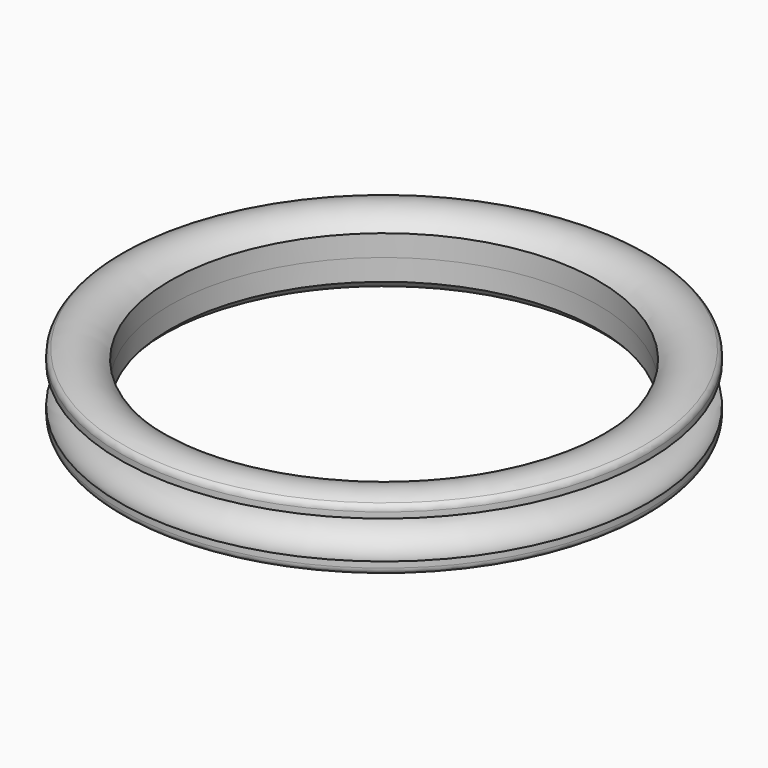
from build123d import *

# Parameters (mm, degrees)
F3_R = 1


with BuildPart() as f1:
    # F0 (on Front) → F1 (revolve)
    with BuildSketch(Plane.XZ):
        with BuildLine():
            Line((30, 3), (30, 0))
            ThreePointArc((30, 0), (32.585786, 3.741657), (37, 2.645751))
            Line((37, 2.645751), (37, 4))
            ThreePointArc((37, 4), (33.292893, 4.949747), (30, 3))
        make_face()
    revolve(axis=Axis((0, 0, 6.898838), (0, 0, 1)))

    # F3
    f3_edges = [f1.edges().sort_by_distance(p)[0] for p in [
        (-37, 0, 4),
    ]]
    fillet(f3_edges, radius=F3_R)


with BuildPart() as f2_1:
    # F2: instance of F1
    add(f1.part.mirror(Plane.XY))


solid = Compound([f1.part, f2_1.part])
